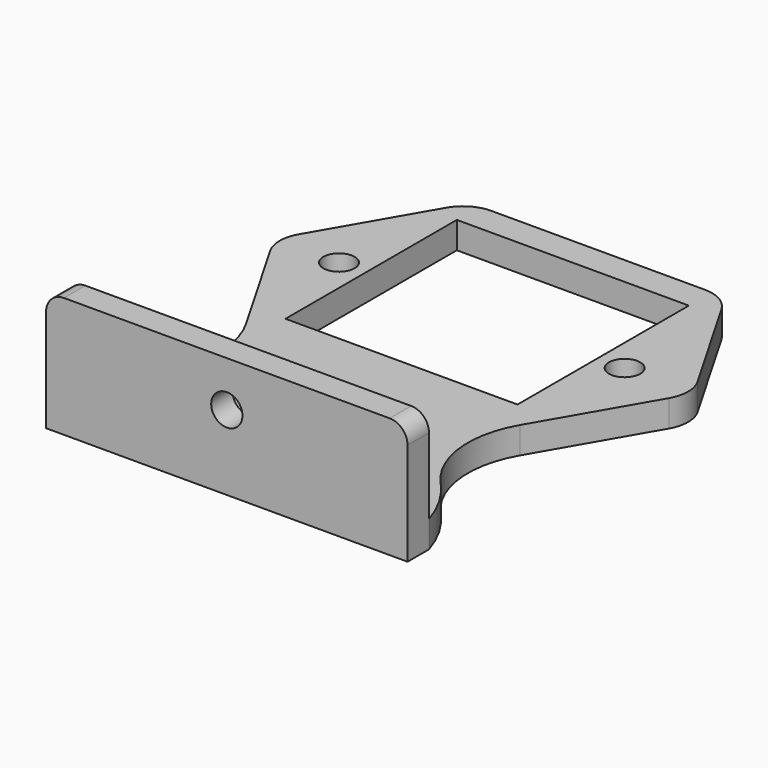
from build123d import *

# Parameters (mm, degrees)
BOX001_W        = 47
BOX001_H        = 52
BOX001_DEPTH    = 3
SKETCH_R        = 1.75
SKETCH_W        = 26
SKETCH_H        = 24
POCKET004_DEPTH = 5
SKETCH001_W     = 66.159115
SKETCH001_H     = 64.322982
POCKET005_DEPTH = 5
FILLET014_R     = 4
BOX002_W        = 40.5
BOX002_H        = 3
BOX002_DEPTH    = 10.5
FILLET015_R     = 2
SKETCH002_R     = 1.75
POCKET006_DEPTH = 5


with BuildPart() as fillet_tongue_base:
    # Box001 → Box001 (new body)
    with BuildSketch(Plane(origin=(-23.5, 56, -34), x_dir=(1, 0, 0), z_dir=(0, 0, 1))):
        with Locations((23.5, 26)):
            Rectangle(BOX001_W, BOX001_H)
    extrude(amount=BOX001_DEPTH)

    # Sketch → Pocket004 (cut)
    with BuildSketch(Plane(origin=(-23.5, 56, -31), x_dir=(1, 0, 0), z_dir=(0, 0, 1))):
        with Locations((7.25, 36.025334)):
            Circle(SKETCH_R)
        with Locations((39.25, 36.025334)):
            Circle(SKETCH_R)
        with Locations((23.25, 36.775334)):
            Rectangle(SKETCH_W, SKETCH_H)
    extrude(amount=-POCKET004_DEPTH, mode=Mode.SUBTRACT)

    # Sketch001 → Pocket005 (cut)
    with BuildSketch(Plane(origin=(-23.5, 56, -31), x_dir=(1, 0, 0), z_dir=(0, 0, 1))):
        with Locations((23.771638, 27.147535)):
            Rectangle(SKETCH001_W, SKETCH001_H)
        with BuildLine():
            Line((0, 36), (9.237604, 52))
            Line((9.237604, 52), (37.762396, 52))
            Line((37.762396, 52), (47, 36))
            Line((47, 36), (38.847126, 21.878809))
            ThreePointArc((38.847126, 21.878809), (37.448559, 15.173629), (40.30581, 8.948554))
            ThreePointArc((43.75, 3), (42.36158, 6.167474), (40.30581, 8.948554))
            Line((43.75, 0), (43.75, 3))
            Line((3.25, 0), (43.75, 0))
            Line((3.25, 0), (3.25, 3))
            ThreePointArc((6.69419, 8.948554), (4.63842, 6.167474), (3.25, 3))
            ThreePointArc((6.69419, 8.948554), (9.551428, 15.17363), (8.152874, 21.878809))
            Line((0, 36), (8.152874, 21.878809))
        make_face(mode=Mode.SUBTRACT)
    extrude(amount=-POCKET005_DEPTH, mode=Mode.SUBTRACT)

    # Fillet014
    fillet014_edges = [fillet_tongue_base.edges().sort_by_distance(p)[0] for p in [
        (-14.262396, 108, -32.5),
        (-23.5, 92, -32.5),
        (14.262396, 108, -32.5),
        (23.5, 92, -32.5),
    ]]
    fillet(fillet014_edges, radius=FILLET014_R)


with BuildPart() as obj1:
    # Box002 → Box002 (new body)
    with BuildSketch(Plane(origin=(-20.25, 56, -31), x_dir=(1, 0, 0), z_dir=(0, 0, 1))):
        with Locations((20.25, 1.5)):
            Rectangle(BOX002_W, BOX002_H)
    extrude(amount=BOX002_DEPTH)

    # Fillet015
    fillet015_edges = [obj1.edges().sort_by_distance(p)[0] for p in [
        (-20.25, 57.5, -20.5),
        (20.25, 57.5, -20.5),
    ]]
    fillet(fillet015_edges, radius=FILLET015_R)

    # Sketch002 → Pocket006 (cut)
    with BuildSketch(Plane(origin=(0, 59, 0), x_dir=(-1, 0, 0), z_dir=(0, 1, 0))):
        with Locations((0, -25.6)):
            Circle(SKETCH002_R)
    extrude(amount=-POCKET006_DEPTH, mode=Mode.SUBTRACT)

    # Fusion005: union Fillet_tongue_base
    add(fillet_tongue_base.part)


solid = obj1.part
